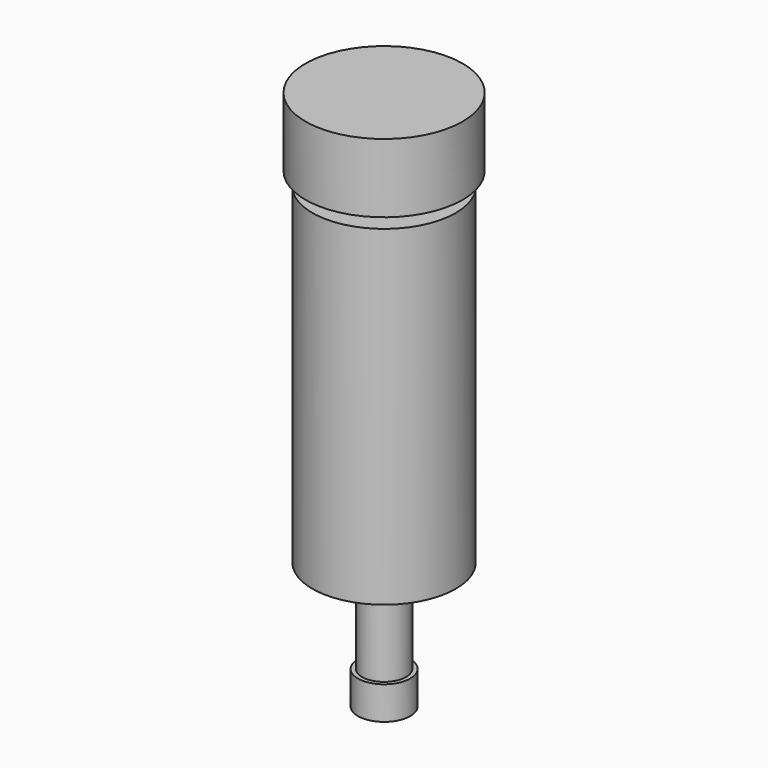
from build123d import *

# Parameters (mm, degrees)
SKETCH_R     = 26
PAD_DEPTH    = 120
SKETCH001_R  = 8
PAD001_DEPTH = 5
SKETCH002_R  = 28.5
PAD002_DEPTH = 25
SKETCH003_R  = 13
PAD003_DEPTH = 6
SKETCH004_R  = 8
PAD004_DEPTH = 28
SKETCH005_R  = 9.5
PAD005_DEPTH = 12


with BuildPart() as part:
    # Sketch → Pad (new body)
    with BuildSketch(Plane.XY):
        Circle(SKETCH_R)
    extrude(amount=PAD_DEPTH)

    # Sketch001 (on Face3 of Pad) → Pad001 (join)
    with BuildSketch(Plane.XY.offset(120)):
        Circle(SKETCH001_R)
    extrude(amount=PAD001_DEPTH)

    # Sketch002 (on Face5 of Pad001) → Pad002 (join)
    with BuildSketch(Plane.XY.offset(125)):
        Circle(SKETCH002_R)
    extrude(amount=PAD002_DEPTH)

    # Sketch003 (on Face7 of Pad002) → Pad003 (join)
    with BuildSketch(Plane(origin=(0, 0, 0), x_dir=(1, 0, 0), z_dir=(0, 0, -1))):
        Circle(SKETCH003_R)
    extrude(amount=PAD003_DEPTH)

    # Sketch004 (on Face9 of Pad003) → Pad004 (join)
    with BuildSketch(Plane(origin=(0, 0, -6), x_dir=(1, 0, 0), z_dir=(0, 0, -1))):
        Circle(SKETCH004_R)
    extrude(amount=PAD004_DEPTH)

    # Sketch005 (on Face11 of Pad004) → Pad005 (join)
    with BuildSketch(Plane(origin=(0, 0, -34), x_dir=(1, 0, 0), z_dir=(0, 0, -1))):
        Circle(SKETCH005_R)
    extrude(amount=PAD005_DEPTH)


solid = part.part
